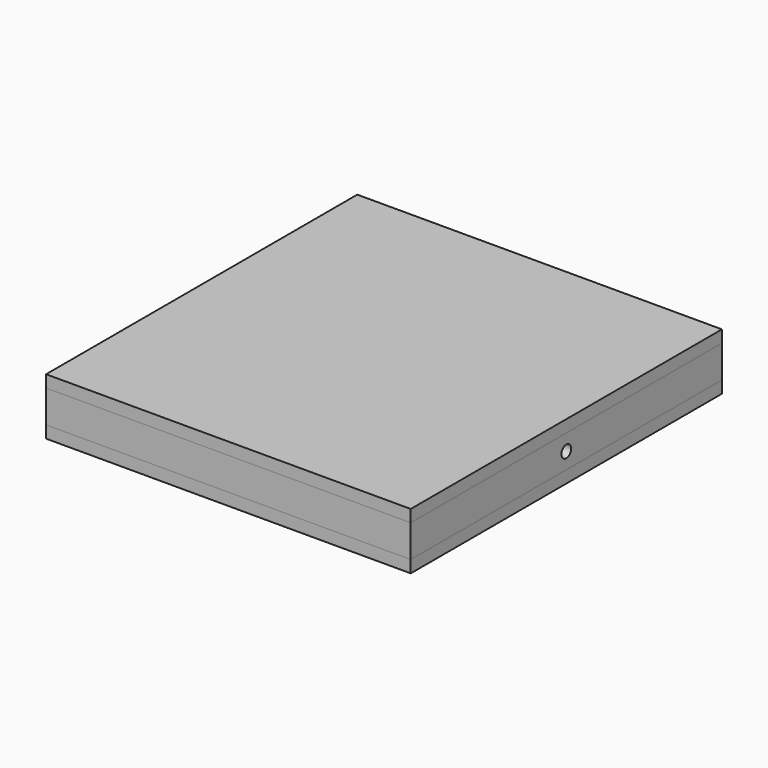
from build123d import *

# Parameters (mm, degrees)
F0_W     = 571.5
F0_H     = 50.8
F1_DEPTH = 609.6
F2_R     = 9.525
F3_DEPTH = 571.501
F4_W     = 495.3
F4_H     = 533.4
F5_DEPTH = 50.801
F6_W     = 571.5
F6_H     = 609.6
F7_DEPTH = 19.05


with BuildPart() as f1:
    # F0 (on Front) → F1 (new body)
    with BuildSketch(Plane.XZ):
        Rectangle(F0_W, F0_H)
    extrude(amount=F1_DEPTH)

    # F2 (on face) → F3 (cut, through all)
    with BuildSketch(Plane(origin=(-285.75, 0, 0), x_dir=(0, -1, 0), z_dir=(-1, 0, 0))):
        with Locations((304.8, 0)):
            Circle(F2_R)
    extrude(amount=-F3_DEPTH, mode=Mode.SUBTRACT)

    # F4 (on face) → F5 (cut, through all)
    with BuildSketch(Plane(origin=(0, 0, -25.4), x_dir=(1, 0, 0), z_dir=(0, 0, -1))):
        with Locations((0, 304.8)):
            Rectangle(F4_W, F4_H)
    extrude(amount=-F5_DEPTH, mode=Mode.SUBTRACT)


with BuildPart() as f7:
    # F6 (on face) → F7 (new body)
    with BuildSketch(Plane.XY.offset(25.4)):
        with Locations((0, -304.8)):
            Rectangle(F6_W, F6_H)
    extrude(amount=F7_DEPTH)


with BuildPart() as f8_1:
    # F8: instance of F7
    add(f7.part.mirror(Plane.XY))


solid = Compound([f1.part, f7.part, f8_1.part])
